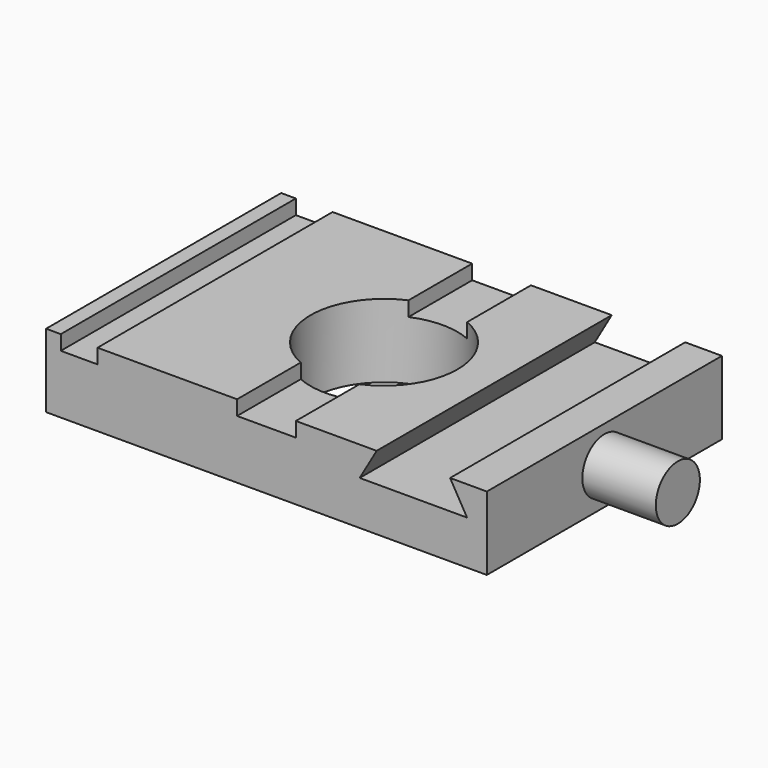
from build123d import *

# Parameters (mm, degrees)
F0_W     = 76.2
F0_H     = 50.8
F0_R     = 12.7
F1_DEPTH = 12.7
F2_W     = 6.35
F2_H     = 50.8
F3_DEPTH = 2.54
F5_DEPTH = 50.801
F6_R     = 4.7625
F7_DEPTH = 12.7


with BuildPart() as f1:
    # F0 (on Top) → F1 (new body)
    with BuildSketch(Plane.XY):
        Rectangle(F0_W, F0_H)
        Circle(F0_R, mode=Mode.SUBTRACT)
    extrude(amount=F1_DEPTH)

    # F2 (on face) → F3 (cut)
    with BuildSketch(Plane.XY.offset(12.7)):
        with Locations((-32.385, 0)):
            Rectangle(F2_W, F2_H)
        with BuildLine():
            Line((-5.08, -11.639742), (-5.08, -25.4))
            Line((-5.08, -25.4), (5.08, -25.4))
            Line((5.08, -25.4), (5.08, -11.639742))
            ThreePointArc((5.08, -11.639742), (0, -12.7), (-5.08, -11.639742))
        make_face()
        with BuildLine():
            Line((5.08, 25.4), (-5.08, 25.4))
            Line((-5.08, 25.4), (-5.08, 11.639742))
            ThreePointArc((-5.08, 11.639742), (0, 12.7), (5.08, 11.639742))
            Line((5.08, 11.639742), (5.08, 25.4))
        make_face()
        with BuildLine():
            Line((5.08, 25.4), (-5.08, 25.4))
            Line((-5.08, 25.4), (-5.08, 11.639742))
            ThreePointArc((-5.08, 11.639742), (0, 12.7), (5.08, 11.639742))
            Line((5.08, 11.639742), (5.08, 25.4))
        make_face()
    extrude(amount=-F3_DEPTH, mode=Mode.SUBTRACT)

    # F4 (on face) → F5 (cut, through all)
    with BuildSketch(Plane.XZ.offset(25.4)):
        Polygon((31.75, 12.7), (19.05, 12.7), (16.117061, 7.62), (34.682939, 7.62), align=None)
    extrude(amount=-F5_DEPTH, mode=Mode.SUBTRACT)

    # F6 (on face) → F7 (join)
    with BuildSketch(Plane.YZ.offset(38.1)):
        with Locations((0, 6.35)):
            Circle(F6_R)
    extrude(amount=F7_DEPTH)


solid = f1.part
